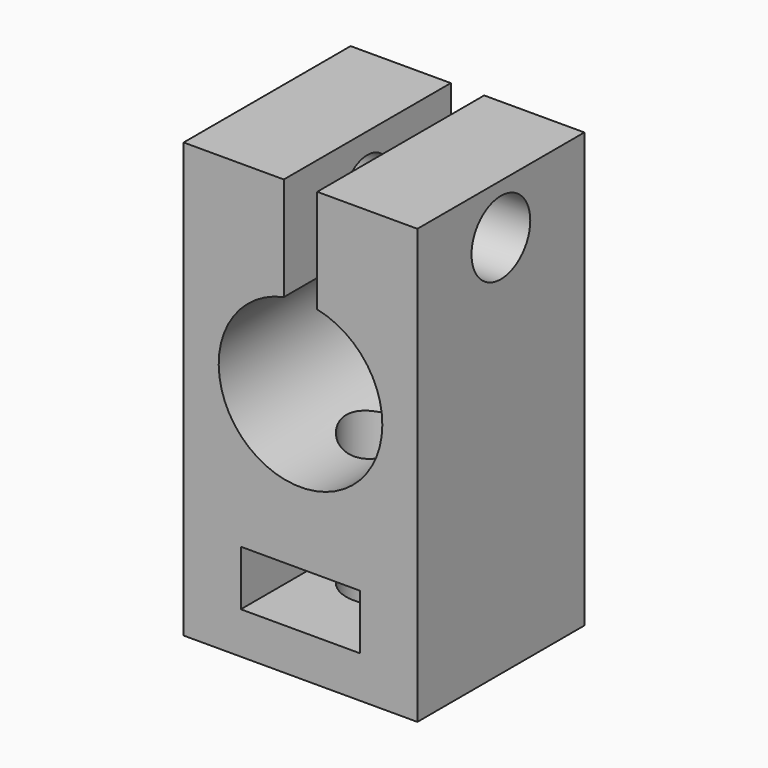
from build123d import *

# Parameters (mm, degrees)
F0_W     = 14
F0_H     = 26
F0_W_2   = 7.15
F0_H_2   = 3.3
F0_R     = 4.9
F1_DEPTH = 12.5
F2_R     = 2.25
F3_DEPTH = 15
F4_W     = 2
F4_H     = 9.3737413222
F5_DEPTH = 12.5010001
F6_R     = 1.75
F7_DEPTH = 14.001
F8_R     = 2.2
F9_DEPTH = 6


with BuildPart() as f1:
    # F0 (on Front) → F1 (new body)
    with BuildSketch(Plane.XZ):
        with Locations((0, -2)):
            Rectangle(F0_W, F0_H)
        with Locations((0, -10.85)):
            Rectangle(F0_W_2, F0_H_2, mode=Mode.SUBTRACT)
        Circle(F0_R, mode=Mode.SUBTRACT)
    extrude(amount=F1_DEPTH)

    # F2 (on face) → F3 (cut)
    with BuildSketch(Plane(origin=(0, 0, -15), x_dir=(1, 0, 0), z_dir=(0, 0, -1))):
        with Locations((0, 6.25)):
            Circle(F2_R)
    extrude(amount=-F3_DEPTH, mode=Mode.SUBTRACT)

    # F4 (on face) → F5 (cut, through all)
    with BuildSketch(Plane.XZ.offset(12.5)):
        with Locations((0, 6.3131293389)):
            Rectangle(F4_W, F4_H)
    extrude(amount=-F5_DEPTH, mode=Mode.SUBTRACT)

    # F6 (on face) → F7 (cut, through all)
    with BuildSketch(Plane.YZ.offset(7)):
        with Locations((-6.25, 8)):
            Circle(F6_R)
    extrude(amount=-F7_DEPTH, mode=Mode.SUBTRACT)

    # F8 (on face) → F9 (cut)
    with BuildSketch(Plane.YZ.offset(7)):
        with Locations((-6.25, 8)):
            Circle(F8_R)
    extrude(amount=-F9_DEPTH, mode=Mode.SUBTRACT)


solid = f1.part
